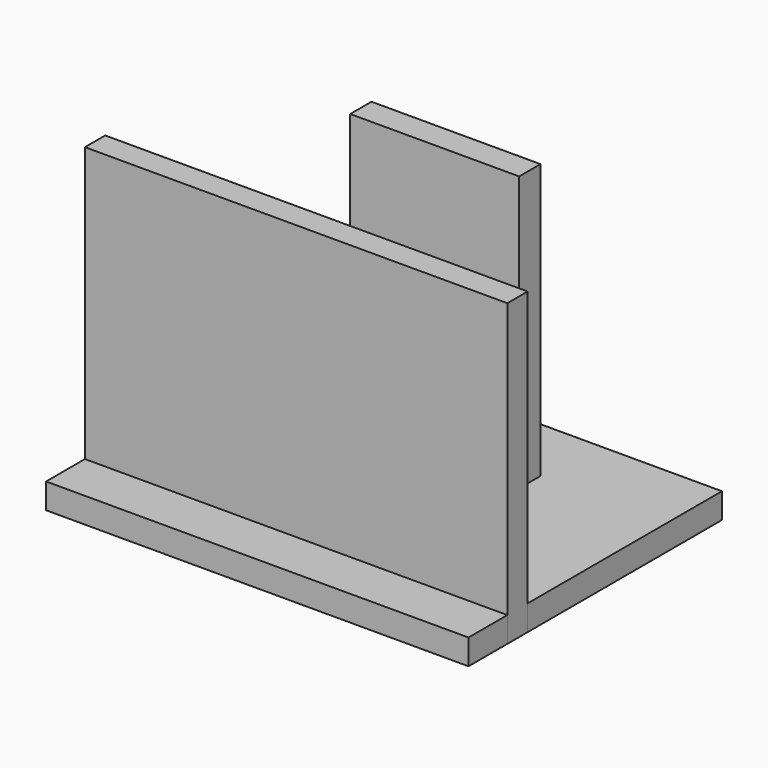
from build123d import *

# Parameters (mm, degrees)
F0_W     = 200
F0_H     = 150
F1_DEPTH = 12
F2_W     = 200
F2_H     = 12
F2_W_2   = 80
F2_H_2   = 12.603782
F3_DEPTH = 142


with BuildPart() as f1:
    # F0 (on Top) → F1 (new body)
    with BuildSketch(Plane.XY):
        Rectangle(F0_W, F0_H)
    extrude(amount=F1_DEPTH)


with BuildPart() as f3:
    # F2 (on face) → F3 (new body)
    with BuildSketch(Plane(origin=(0, 0, 0), x_dir=(1, 0, 0), z_dir=(0, 0, -1))):
        with Locations((0, 46)):
            Rectangle(F2_W, F2_H)
        with Locations((0, -36.301891)):
            Rectangle(F2_W_2, F2_H_2)
    extrude(amount=-F3_DEPTH)


solid = Compound([f1.part, f3.part])
